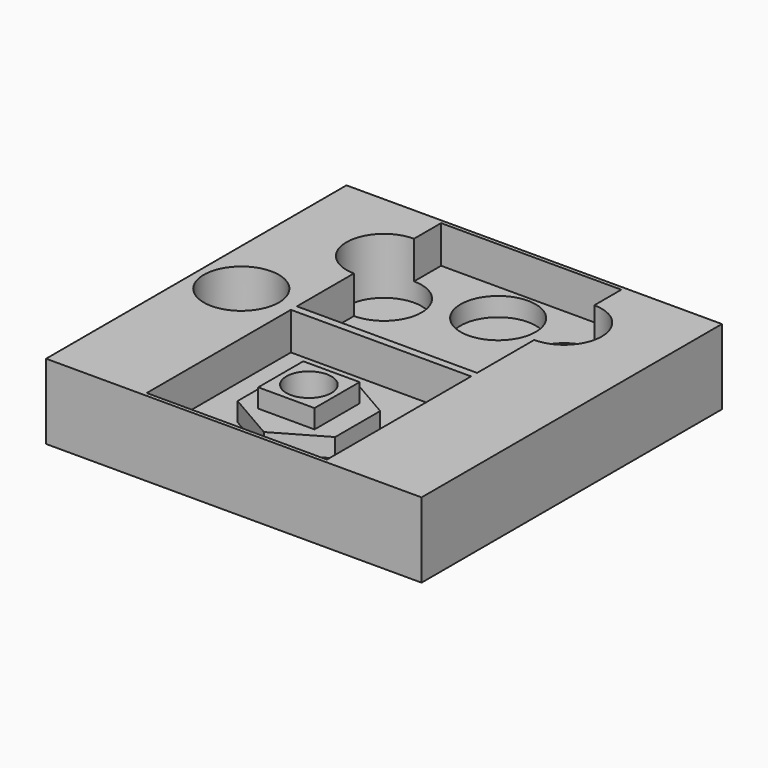
from build123d import *

# Parameters (mm, degrees)
SKETCH_W        = 100
SKETCH_H        = 100
PAD_DEPTH       = 20
SKETCH001_W     = 48
SKETCH001_H     = 48
POCKET_DEPTH    = 10
SKETCH002_R     = 10
POCKET001_DEPTH = 15
PAD001_DEPTH    = 5
SKETCH004_W     = 15
SKETCH004_H     = 15
PAD002_DEPTH    = 5
SKETCH005_R     = 6
POCKET002_DEPTH = 10


with BuildPart() as part:
    # Sketch → Pad (new body)
    with BuildSketch(Plane.XY):
        Rectangle(SKETCH_W, SKETCH_H)
    extrude(amount=-PAD_DEPTH)

    # Sketch001 (on Face5 of Pad) → Pocket (cut)
    with BuildSketch(Plane.XY):
        with Locations((0, 25)):
            Rectangle(SKETCH001_W, SKETCH001_H)
        with Locations((0, -25)):
            Rectangle(SKETCH001_W, SKETCH001_H)
    extrude(amount=-POCKET_DEPTH, mode=Mode.SUBTRACT)

    # Sketch002 (on Face4 of Pocket) → Pocket001 (cut)
    with BuildSketch(Plane.XY):
        with Locations((-24, 30)):
            Circle(SKETCH002_R)
        with Locations((-38, 0)):
            Circle(SKETCH002_R)
        with Locations((0, 38)):
            Circle(SKETCH002_R)
        with Locations((24, 30)):
            Circle(SKETCH002_R)
    extrude(amount=-POCKET001_DEPTH, mode=Mode.SUBTRACT)

    # Sketch003 → Pad001 (join)
    with BuildSketch(Plane.XY.offset(-10)):
        Polygon((12.990381, -32.5), (12.990381, -17.5), (0, -10), (-12.990381, -17.5), (-12.990381, -32.5), (0, -40), align=None)
    extrude(amount=PAD001_DEPTH)

    # Sketch004 (on Face33 of Pad001) → Pad002 (join)
    with BuildSketch(Plane.XY.offset(-5)):
        with Locations((0, -25)):
            Rectangle(SKETCH004_W, SKETCH004_H)
    extrude(amount=PAD002_DEPTH)

    # Sketch005 (on Face38 of Pad002) → Pocket002 (cut)
    with BuildSketch(Plane.XY):
        with Locations((0, -25)):
            Circle(SKETCH005_R)
    extrude(amount=-POCKET002_DEPTH, mode=Mode.SUBTRACT)


solid = part.part
